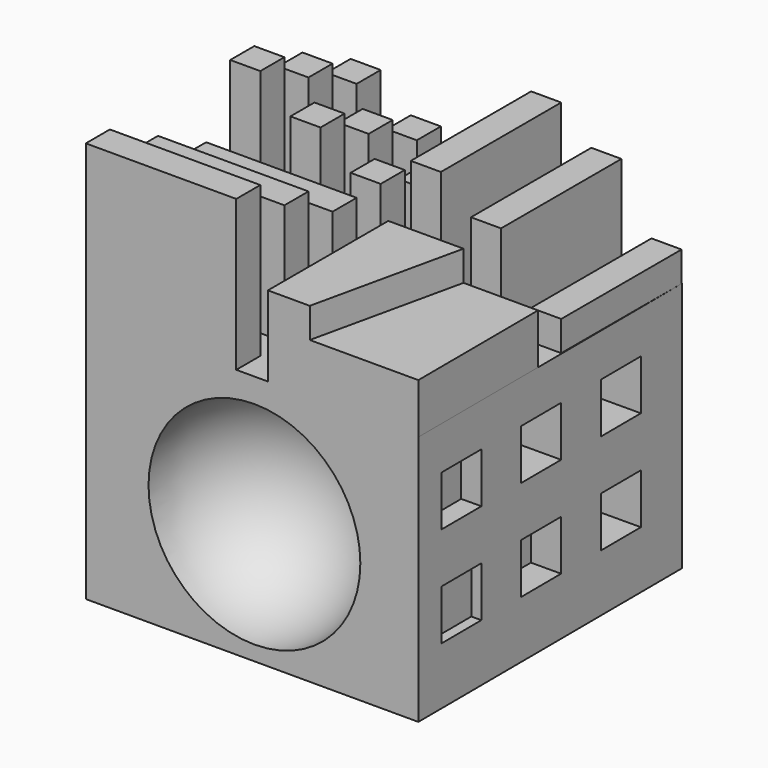
from build123d import *

# Parameters (mm, degrees)
F1_DEPTH  = 5
F0_W      = 15
F0_H      = 3
F2_DEPTH  = 15
F0_W_2    = 3
F3_DEPTH  = 3
F4_DEPTH  = 12
F6_DEPTH  = 25
F10_W     = 5
F10_H     = 5
F11_DEPTH = 2
F12_DEPTH = 12
F13_DEPTH = 9
F14_DEPTH = 6
F15_DEPTH = 9
F16_DEPTH = 9
F17_DEPTH = 15
F18_DEPTH = 12
F19_DEPTH = 6
F20_DEPTH = 9
F21_DEPTH = 12
F22_DEPTH = 9
F23_DEPTH = 3
F24_DEPTH = 4
F25_DEPTH = 6
F26_DEPTH = 1
F27_DEPTH = 3
F28_DEPTH = 5
F9_W      = 3
F9_H      = 3
F29_DEPTH = 2
F30_DEPTH = 4
F31_DEPTH = 6
F32_DEPTH = 8
F33_DEPTH = 1
F34_DEPTH = 3
F35_DEPTH = 5
F36_DEPTH = 7
F37_DEPTH = 1
F38_DEPTH = 2
F39_DEPTH = 3
F40_DEPTH = 4
F42_DEPTH = 3
F44_DEPTH = 3


with BuildPart() as f1:
    # F0 (on Top) → F1 (new body)
    with BuildSketch(Plane.XY):
        Polygon((14.2212225916, -3.3255452978), (14.1498658388, 11.6744547022), (-0.7787774084, 11.6744547022), (-0.7787774084, -3.3255452978), align=None)
    extrude(amount=F1_DEPTH)



with BuildPart() as f2:
    # F0 (on Top) → F2 (new body)
    with BuildSketch(Plane.XY):
        with Locations((-11.4361313693, -1.8255452978)):
            Rectangle(F0_W, F0_H)
    extrude(amount=F2_DEPTH)


with BuildPart() as f3:
    # F0 (on Top) → F3 (new body)
    with BuildSketch(Plane.XY):
        with Locations((-5.4361313693, 28.1744547022)):
            Rectangle(F0_W_2, F0_H)
    extrude(amount=F3_DEPTH)


with BuildPart() as f4:
    # F0 (on Top) → F4 (new body)
    with BuildSketch(Plane.XY):
        Polygon((2.0638686307, 29.6744547022), (-0.9361313693, 29.6744547022), (-0.9361313693, 14.7520447022), (-0.9361313693, 14.6744547022), (2.0638686307, 14.6744547022), (2.0638686307, 14.7520447022), align=None)
    extrude(amount=F4_DEPTH)


with BuildPart() as f1_1:
    add(f1.part)

    add(f2.part)  # F6 merges F2

    add(f3.part)  # F6 merges F3

    add(f4.part)  # F6 merges F4
    # F5 (on Top) → F6 (join)
    with BuildSketch(Plane.XY):
        Polygon((-18.9361313693, -3.3255452978), (14.2212225916, -3.3255452978), (14.0638686307, 29.7520447022), (-18.9361313693, 29.6744547022), align=None)
    extrude(amount=-F6_DEPTH)

    # F7 (on face) → F8 (revolve, cut)
    with BuildSketch(Plane.XZ.offset(3.3255452978)):
        with BuildLine():
            Line((-2.1231973078, -23.52852803), (-2.1231973078, -2.4096941548))
            ThreePointArc((-2.1231973078, -2.4096941548), (-12.6826142454, -12.9691110924), (-2.1231973078, -23.52852803))
        make_face()
    revolve(axis=Axis((-2.1231973078, -3.3255452978, -12.9691110924), (0, 0, -1)), mode=Mode.SUBTRACT)

    # F10 (on face) → F11 (cut)
    with BuildSketch(Plane(origin=(14.2050811207, 0.0675752308, 0), x_dir=(-0.004757063, 0.9999886851, 0), z_dir=(0.9999886851, 0.004757063, 0))):
        with Locations((2.0033325977, -6.7919711024)):
            Rectangle(F10_W, F10_H)
    extrude(amount=-F11_DEPTH, mode=Mode.SUBTRACT)

    # F0 (on Top) → F12 (join)
    with BuildSketch(Plane.XY):
        with Locations((-11.4361313693, 4.1744547022)):
            Rectangle(F0_W, F0_H)
    extrude(amount=F12_DEPTH)

    # F0 (on Top) → F13 (join)
    with BuildSketch(Plane.XY):
        with Locations((-11.4361313693, 10.1744547022)):
            Rectangle(F0_W, F0_H)
    extrude(amount=F13_DEPTH)

    # F0 (on Top) → F14 (join)
    with BuildSketch(Plane.XY):
        with Locations((-11.4361313693, 28.1744547022)):
            Rectangle(F0_W_2, F0_H)
    extrude(amount=F14_DEPTH)

    # F0 (on Top) → F15 (join)
    with BuildSketch(Plane.XY):
        with Locations((-17.4361313693, 28.1744547022)):
            Rectangle(F0_W_2, F0_H)
    extrude(amount=F15_DEPTH)

    # F0 (on Top) → F16 (join)
    with BuildSketch(Plane.XY):
        with Locations((-11.4361313693, 22.1744547022)):
            Rectangle(F0_W_2, F0_H)
    extrude(amount=F16_DEPTH)

    # F0 (on Top) → F17 (join)
    with BuildSketch(Plane.XY):
        with Locations((-17.4361313693, 16.1744547022)):
            Rectangle(F0_W_2, F0_H)
    extrude(amount=F17_DEPTH)

    # F0 (on Top) → F18 (join)
    with BuildSketch(Plane.XY):
        with Locations((-17.4361313693, 22.1744547022)):
            Rectangle(F0_W_2, F0_H)
    extrude(amount=F18_DEPTH)

    # F0 (on Top) → F19 (join)
    with BuildSketch(Plane.XY):
        with Locations((-5.4361313693, 22.1744547022)):
            Rectangle(F0_W_2, F0_H)
    extrude(amount=F19_DEPTH)

    # F0 (on Top) → F20 (join)
    with BuildSketch(Plane.XY):
        with Locations((-5.4361313693, 16.1744547022)):
            Rectangle(F0_W_2, F0_H)
    extrude(amount=F20_DEPTH)

    # F0 (on Top) → F21 (join)
    with BuildSketch(Plane.XY):
        with Locations((-11.4361313693, 16.1744547022)):
            Rectangle(F0_W_2, F0_H)
    extrude(amount=F21_DEPTH)

    # F0 (on Top) → F22 (join)
    with BuildSketch(Plane.XY):
        Polygon((8.0638686307, 29.6744547022), (5.0638686307, 29.6744547022), (5.0638686307, 14.7520447022), (5.0638686307, 14.6744547022), (8.0638686307, 14.6744547022), (8.0638686307, 14.7520447022), align=None)
    extrude(amount=F22_DEPTH)

    # F0 (on Top) → F23 (join)
    with BuildSketch(Plane.XY):
        Polygon((14.0638686307, 29.6744547022), (11.0638686307, 29.6744547022), (11.0638686307, 14.7520447022), (11.0638686307, 14.6744547022), (14.0638686307, 14.6744547022), (14.0638686307, 14.7520447022), align=None)
    extrude(amount=F23_DEPTH)

    # F10 (on face) → F24 (cut)
    with BuildSketch(Plane(origin=(14.2050811207, 0.0675752308, 0), x_dir=(-0.004757063, 0.9999886851, 0), z_dir=(0.9999886851, 0.004757063, 0))):
        with Locations((12.0033325977, -6.7919711024)):
            Rectangle(F10_W, F10_H)
    extrude(amount=-F24_DEPTH, mode=Mode.SUBTRACT)

    # F10 (on face) → F25 (cut)
    with BuildSketch(Plane(origin=(14.2050811207, 0.0675752308, 0), x_dir=(-0.004757063, 0.9999886851, 0), z_dir=(0.9999886851, 0.004757063, 0))):
        with Locations((22.0033325977, -6.7919711024)):
            Rectangle(F10_W, F10_H)
    extrude(amount=-F25_DEPTH, mode=Mode.SUBTRACT)

    # F10 (on face) → F26 (cut)
    with BuildSketch(Plane(origin=(14.2050811207, 0.0675752308, 0), x_dir=(-0.004757063, 0.9999886851, 0), z_dir=(0.9999886851, 0.004757063, 0))):
        with Locations((2.0033325977, -16.7919711024)):
            Rectangle(F10_W, F10_H)
    extrude(amount=-F26_DEPTH, mode=Mode.SUBTRACT)

    # F10 (on face) → F27 (cut)
    with BuildSketch(Plane(origin=(14.2050811207, 0.0675752308, 0), x_dir=(-0.004757063, 0.9999886851, 0), z_dir=(0.9999886851, 0.004757063, 0))):
        with Locations((12.0033325977, -16.7919711024)):
            Rectangle(F10_W, F10_H)
    extrude(amount=-F27_DEPTH, mode=Mode.SUBTRACT)

    # F10 (on face) → F28 (cut)
    with BuildSketch(Plane(origin=(14.2050811207, 0.0675752308, 0), x_dir=(-0.004757063, 0.9999886851, 0), z_dir=(0.9999886851, 0.004757063, 0))):
        with Locations((22.0033325977, -16.7919711024)):
            Rectangle(F10_W, F10_H)
    extrude(amount=-F28_DEPTH, mode=Mode.SUBTRACT)

    # F9 (on face) → F29 (cut)
    with BuildSketch(Plane(origin=(-18.9361313693, 0, 0), x_dir=(0, -1, 0), z_dir=(-1, 0, 0))):
        with Locations((-23.521638004, -6.4509857927)):
            Rectangle(F9_W, F9_H)
    extrude(amount=-F29_DEPTH, mode=Mode.SUBTRACT)

    # F9 (on face) → F30 (cut)
    with BuildSketch(Plane(origin=(-18.9361313693, 0, 0), x_dir=(0, -1, 0), z_dir=(-1, 0, 0))):
        with Locations((-17.521638004, -6.4509857927)):
            Rectangle(F9_W, F9_H)
    extrude(amount=-F30_DEPTH, mode=Mode.SUBTRACT)

    # F9 (on face) → F31 (cut)
    with BuildSketch(Plane(origin=(-18.9361313693, 0, 0), x_dir=(0, -1, 0), z_dir=(-1, 0, 0))):
        with Locations((-11.521638004, -6.4509857927)):
            Rectangle(F9_W, F9_H)
    extrude(amount=-F31_DEPTH, mode=Mode.SUBTRACT)

    # F9 (on face) → F32 (cut)
    with BuildSketch(Plane(origin=(-18.9361313693, 0, 0), x_dir=(0, -1, 0), z_dir=(-1, 0, 0))):
        with Locations((-5.521638004, -6.4509857927)):
            Rectangle(F9_W, F9_H)
    extrude(amount=-F32_DEPTH, mode=Mode.SUBTRACT)

    # F9 (on face) → F33 (cut)
    with BuildSketch(Plane(origin=(-18.9361313693, 0, 0), x_dir=(0, -1, 0), z_dir=(-1, 0, 0))):
        with Locations((-23.521638004, -12.4509857927)):
            Rectangle(F9_W, F9_H)
    extrude(amount=-F33_DEPTH, mode=Mode.SUBTRACT)

    # F9 (on face) → F34 (cut)
    with BuildSketch(Plane(origin=(-18.9361313693, 0, 0), x_dir=(0, -1, 0), z_dir=(-1, 0, 0))):
        with Locations((-17.521638004, -12.4509857927)):
            Rectangle(F9_W, F9_H)
    extrude(amount=-F34_DEPTH, mode=Mode.SUBTRACT)

    # F9 (on face) → F35 (cut)
    with BuildSketch(Plane(origin=(-18.9361313693, 0, 0), x_dir=(0, -1, 0), z_dir=(-1, 0, 0))):
        with Locations((-11.521638004, -12.4509857927)):
            Rectangle(F9_W, F9_H)
    extrude(amount=-F35_DEPTH, mode=Mode.SUBTRACT)

    # F9 (on face) → F36 (cut)
    with BuildSketch(Plane(origin=(-18.9361313693, 0, 0), x_dir=(0, -1, 0), z_dir=(-1, 0, 0))):
        with Locations((-5.521638004, -12.4509857927)):
            Rectangle(F9_W, F9_H)
    extrude(amount=-F36_DEPTH, mode=Mode.SUBTRACT)

    # F9 (on face) → F37 (cut)
    with BuildSketch(Plane(origin=(-18.9361313693, 0, 0), x_dir=(0, -1, 0), z_dir=(-1, 0, 0))):
        with Locations((-23.521638004, -18.4509857927)):
            Rectangle(F9_W, F9_H)
    extrude(amount=-F37_DEPTH, mode=Mode.SUBTRACT)

    # F9 (on face) → F38 (cut)
    with BuildSketch(Plane(origin=(-18.9361313693, 0, 0), x_dir=(0, -1, 0), z_dir=(-1, 0, 0))):
        with Locations((-17.521638004, -18.4509857927)):
            Rectangle(F9_W, F9_H)
    extrude(amount=-F38_DEPTH, mode=Mode.SUBTRACT)

    # F9 (on face) → F39 (cut)
    with BuildSketch(Plane(origin=(-18.9361313693, 0, 0), x_dir=(0, -1, 0), z_dir=(-1, 0, 0))):
        with Locations((-11.521638004, -18.4509857927)):
            Rectangle(F9_W, F9_H)
    extrude(amount=-F39_DEPTH, mode=Mode.SUBTRACT)

    # F9 (on face) → F40 (cut)
    with BuildSketch(Plane(origin=(-18.9361313693, 0, 0), x_dir=(0, -1, 0), z_dir=(-1, 0, 0))):
        with Locations((-5.521638004, -18.4509857927)):
            Rectangle(F9_W, F9_H)
    extrude(amount=-F40_DEPTH, mode=Mode.SUBTRACT)

    # F41 (on face) → F42 (join)
    with BuildSketch(Plane.XY.offset(5)):
        Polygon((-0.7787774084, -3.3255452978), (3.3940772992, -3.3255452978), (6.7212225916, 11.6744547022), (-0.7787774084, 11.6744547022), align=None)
    extrude(amount=F42_DEPTH)

    # F43 (on face) → F44 (join)
    with BuildSketch(Plane(origin=(-0.069875234, 29.7188132724, 0), x_dir=(-0.9999972359, -0.0023512056, 0), z_dir=(-0.0023512056, 0.9999972359, 0))):
        Polygon((18.8663082835, 0), (9.8840193823, 0), (-5.0577260554, -25), (18.8663082835, -25), align=None)
    extrude(amount=F44_DEPTH)


solid = f1_1.part
